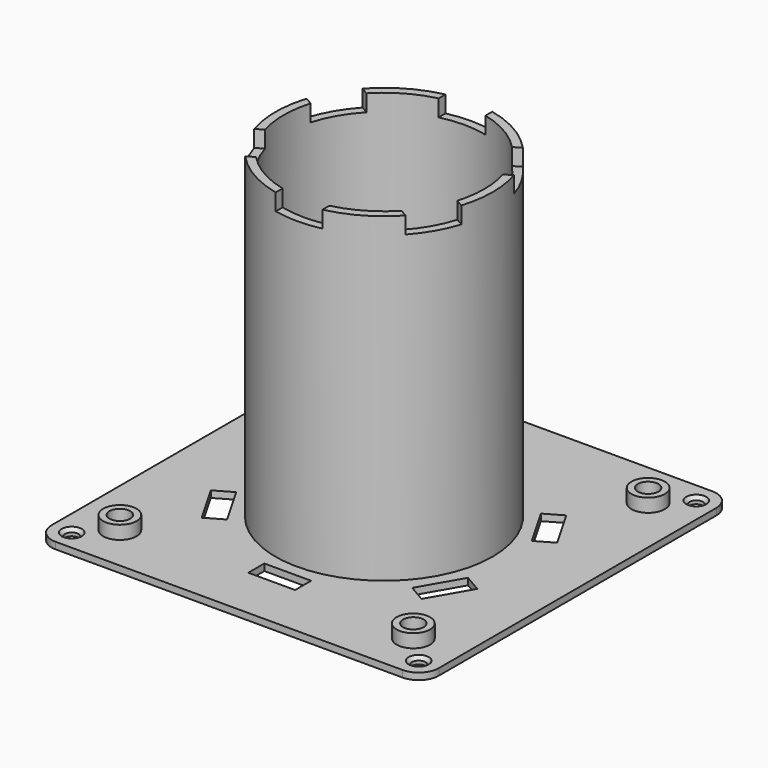
from build123d import *

# Parameters (mm, degrees)
PAD013_DEPTH          = 2
SKETCH027_R           = 2
POCKET011_DEPTH       = 2
CHAMFER004_SIZE       = 1
SKETCH028_R           = 30
POCKET012_DEPTH       = 5
SKETCH029_R           = 32.5
SKETCH029_R_2         = 30
PAD014_DEPTH          = 96
SKETCH030_W           = 14
SKETCH030_H           = 6
POCKET013_DEPTH       = 5
POLARPATTERN007_COUNT = 6
SKETCH031_W           = 14
SKETCH031_H           = 6
POCKET014_DEPTH       = 5
POLARPATTERN008_COUNT = 6
SKETCH032_R           = 5
SKETCH032_R_2         = 3.1
PAD015_DEPTH          = 4
POLARPATTERN009_COUNT = 4


with BuildPart() as part:
    # Sketch026 → Pad013 (new body)
    with BuildSketch(Plane.XY):
        with BuildLine():
            Line((-51.9, -57.9), (51.9, -57.9))
            ThreePointArc((51.9, -57.9), (56.1426406871, -56.1426406871), (57.9, -51.9))
            Line((57.9, -51.9), (57.9, 51.9))
            ThreePointArc((57.9, 51.9), (56.1426406871, 56.1426406871), (51.9, 57.9))
            Line((51.9, 57.9), (-51.9, 57.9))
            ThreePointArc((-51.9, 57.9), (-56.1426406871, 56.1426406871), (-57.9, 51.9))
            Line((-57.9, 51.9), (-57.9, -51.9))
            ThreePointArc((-57.9, -51.9), (-56.1426406871, -56.1426406871), (-51.9, -57.9))
        make_face()
    extrude(amount=PAD013_DEPTH)

    # Sketch027 (on Face10 of Pad013) → Pocket011 (cut)
    with BuildSketch(Plane.XY.offset(2)):
        with Locations((-51.900002, 51.900002)):
            Circle(SKETCH027_R)
        with Locations((51.9, 51.9)):
            Circle(SKETCH027_R)
        with Locations((51.9, -51.9)):
            Circle(SKETCH027_R)
        with Locations((-51.9, -51.9)):
            Circle(SKETCH027_R)
    extrude(amount=-POCKET011_DEPTH, mode=Mode.SUBTRACT)

    # Chamfer004
    chamfer004_edges = [part.edges().sort_by_distance(p)[0] for p in [
        (-53.9, -51.9, 2),
        (-53.900002, 51.900002, 2),
        (49.9, 51.9, 2),
        (49.9, -51.9, 2),
    ]]
    chamfer(chamfer004_edges, length=CHAMFER004_SIZE)

    # Sketch028 (on Face1 of Chamfer004) → Pocket012 (cut)
    with BuildSketch(Plane.XY.offset(2)):
        Circle(SKETCH028_R)
    extrude(amount=-POCKET012_DEPTH, mode=Mode.SUBTRACT)

    # Sketch029 (on Face1 of Pocket012) → Pad014 (join)
    with BuildSketch(Plane.XY.offset(2)):
        Circle(SKETCH029_R)
        Circle(SKETCH029_R_2, mode=Mode.SUBTRACT)
    extrude(amount=PAD014_DEPTH)

    # Sketch030 (on Face1 of Pad014) → Pocket013 (cut)
    with BuildSketch(Plane.XY.offset(2)):
        with Locations((0, 39)):
            Rectangle(SKETCH030_W, SKETCH030_H)
    pocket013 = extrude(amount=-POCKET013_DEPTH, mode=Mode.SUBTRACT)

    # PolarPattern007: Pocket013 ×6 about axis
    polarpattern007_axis = Axis((0, 0, 2), (0, 0, 1))
    for i in range(1, POLARPATTERN007_COUNT):
        add(pocket013.rotate(polarpattern007_axis, i * 360 / POLARPATTERN007_COUNT), mode=Mode.SUBTRACT)

    # Sketch031 (on Face42 of PolarPattern007) → Pocket014 (cut)
    with BuildSketch(Plane.XY.offset(98)):
        with Locations((0, 31)):
            Rectangle(SKETCH031_W, SKETCH031_H)
    pocket014 = extrude(amount=-POCKET014_DEPTH, mode=Mode.SUBTRACT)

    # PolarPattern008: Pocket014 ×6 about axis
    polarpattern008_axis = Axis((0, 0, 98), (0, 0, 1))
    for i in range(1, POLARPATTERN008_COUNT):
        add(pocket014.rotate(polarpattern008_axis, i * 360 / POLARPATTERN008_COUNT), mode=Mode.SUBTRACT)

    # Sketch032 (on Face1 of PolarPattern008) → Pad015 (join)
    with BuildSketch(Plane.XY.offset(2)):
        with Locations((-43.9, 43.9)):
            Circle(SKETCH032_R)
        with Locations((-43.9, 43.9)):
            Circle(SKETCH032_R_2, mode=Mode.SUBTRACT)
    pad015 = extrude(amount=PAD015_DEPTH)

    # PolarPattern009: Pad015 ×4 about axis
    polarpattern009_axis = Axis((0, 0, 2), (0, 0, 1))
    for i in range(1, POLARPATTERN009_COUNT):
        add(pad015.rotate(polarpattern009_axis, i * 360 / POLARPATTERN009_COUNT))


with BuildPart() as part_1:
    # Body003 placement: moved
    add(part.part.moved(Location((0, 0, 39.5))))


solid = part_1.part
